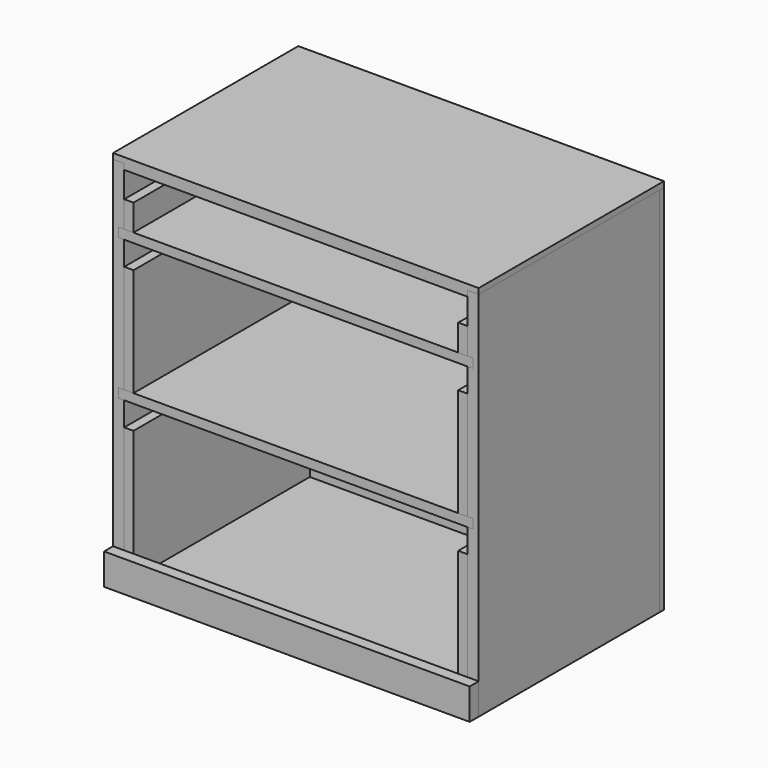
from build123d import *

# Parameters (mm, degrees)
F1_W           = 18.25625
F1_H           = 367.903125
F6_DEPTH       = 605.234375
F0_W           = 595.3125
F0_H           = 18.25625
F7_DEPTH       = 50.8
F2_W           = 577.05625
F2_H           = 15.08125
F8_DEPTH       = 190.103125
F8_DEPTH_BACK  = 177.8
F9_DEPTH       = 177.8
F9_DEPTH_BACK  = 190.103125
F10_DEPTH      = 177.8
F10_DEPTH_BACK = 199.23125
F5_W           = 18.25625
F5_H           = 9.128125
F11_DEPTH      = 297.65625
F11_DEPTH_BACK = 297.65625
F4_W           = 15.08125
F4_H           = 211.93125
F12_DEPTH      = 177.8
F12_DEPTH_BACK = 180.975
F4_H_2         = 176.2125
F4_H_3         = 42.8625


with BuildPart() as f6:
    # F1 (on Top) → F6 (new body)
    with BuildSketch(Plane.XY):
        with Locations((-288.528125, 6.1515625)):
            Rectangle(F1_W, F1_H)
    extrude(amount=F6_DEPTH)


with BuildPart() as f6b:
    # F1 (on Top) → F6, piece 2 (new body)
    with BuildSketch(Plane.XY):
        with Locations((288.528125, 6.1515625)):
            Rectangle(F1_W, F1_H)
    extrude(amount=F6_DEPTH)


with BuildPart() as f6c:
    # F0 (on Top) → F6, piece 3 (new body)
    with BuildSketch(Plane.XY):
        Polygon((297.65625, 199.23125), (-297.65625, 199.23125), (-297.65625, 190.103125), (-279.4, 190.103125), (-279.4, 180.975), (279.4, 180.975), (279.4, 190.103125), (297.65625, 190.103125), align=None)
    extrude(amount=F6_DEPTH)


with BuildPart() as f7:
    # F0 (on Top) → F7 (new body)
    with BuildSketch(Plane.XY):
        with Locations((0, -186.928125)):
            Rectangle(F0_W, F0_H)
    extrude(amount=F7_DEPTH)


with BuildPart() as f8_tool:
    # F2 (on Front) → F8 (new body, two sides)
    with BuildSketch(Plane.XZ) as f8_sk:
        with Locations((0, 7.540625)):
            Rectangle(F2_W, F2_H)
        with Locations((0, 273.446875)):
            Rectangle(F2_W, F2_H)
        with Locations((0, 503.634375)):
            Rectangle(F2_W, F2_H)
    extrude(amount=-F8_DEPTH)
    extrude(f8_sk.sketch, amount=F8_DEPTH_BACK)


with BuildPart() as f6_1:
    add(f6.part)

    # F8: cut by f8_tool
    add(f8_tool.part, mode=Mode.SUBTRACT)


with BuildPart() as f6b_1:
    add(f6b.part)

    # F8: cut by f8_tool
    add(f8_tool.part, mode=Mode.SUBTRACT)


with BuildPart() as f6c_1:
    add(f6c.part)

    # F8: cut by f8_tool
    add(f8_tool.part, mode=Mode.SUBTRACT)


with BuildPart() as f9:
    # F2 (on Front) → F9 (new body, two sides)
    with BuildSketch(Plane.XZ) as f9_sk:
        with Locations((0, 7.540625)):
            Rectangle(F2_W, F2_H)
    extrude(amount=F9_DEPTH)
    extrude(f9_sk.sketch, amount=-F9_DEPTH_BACK)


with BuildPart() as f9b:
    # F2 (on Front) → F9, piece 2 (new body, two sides)
    with BuildSketch(Plane.XZ) as f9_2_sk:
        with Locations((0, 273.446875)):
            Rectangle(F2_W, F2_H)
    extrude(amount=F9_DEPTH)
    extrude(f9_2_sk.sketch, amount=-F9_DEPTH_BACK)


with BuildPart() as f9c:
    # F2 (on Front) → F9, piece 3 (new body, two sides)
    with BuildSketch(Plane.XZ) as f9_3_sk:
        with Locations((0, 503.634375)):
            Rectangle(F2_W, F2_H)
    extrude(amount=F9_DEPTH)
    extrude(f9_3_sk.sketch, amount=-F9_DEPTH_BACK)


with BuildPart() as f10:
    # F3 (on Front) → F10 (new body, two sides)
    with BuildSketch(Plane.XZ) as f10_sk:
        Polygon((297.65625, 614.3625), (-297.65625, 614.3625), (-297.65625, 605.234375), (-279.4, 605.234375), (-279.4, 596.10625), (279.4, 596.10625), (279.4, 605.234375), (297.65625, 605.234375), align=None)
    extrude(amount=F10_DEPTH)
    extrude(f10_sk.sketch, amount=-F10_DEPTH_BACK)

    # F5 (on Right) → F11 (cut, two sides)
    with BuildSketch(Plane.YZ) as f11_sk:
        with Locations((190.103125, 600.6703125)):
            Rectangle(F5_W, F5_H)
    extrude(amount=-F11_DEPTH, mode=Mode.SUBTRACT)
    extrude(f11_sk.sketch, amount=F11_DEPTH_BACK, mode=Mode.SUBTRACT)


with BuildPart() as f12:
    # F4 (on Front) → F12 (new body, two sides)
    with BuildSketch(Plane.XZ) as f12_sk:
        with Locations((-271.859375, 121.046875)):
            Rectangle(F4_W, F4_H)
    extrude(amount=F12_DEPTH)
    extrude(f12_sk.sketch, amount=-F12_DEPTH_BACK)


with BuildPart() as f12b:
    # F4 (on Front) → F12, piece 2 (new body, two sides)
    with BuildSketch(Plane.XZ) as f12_2_sk:
        with Locations((-271.859375, 369.09375)):
            Rectangle(F4_W, F4_H_2)
    extrude(amount=F12_DEPTH)
    extrude(f12_2_sk.sketch, amount=-F12_DEPTH_BACK)


with BuildPart() as f12c:
    # F4 (on Front) → F12, piece 3 (new body, two sides)
    with BuildSketch(Plane.XZ) as f12_3_sk:
        with Locations((-271.859375, 532.60625)):
            Rectangle(F4_W, F4_H_3)
    extrude(amount=F12_DEPTH)
    extrude(f12_3_sk.sketch, amount=-F12_DEPTH_BACK)


with BuildPart() as f12d:
    # F4 (on Front) → F12, piece 4 (new body, two sides)
    with BuildSketch(Plane.XZ) as f12_4_sk:
        with Locations((271.859375, 369.09375)):
            Rectangle(F4_W, F4_H_2)
    extrude(amount=F12_DEPTH)
    extrude(f12_4_sk.sketch, amount=-F12_DEPTH_BACK)


with BuildPart() as f12e:
    # F4 (on Front) → F12, piece 5 (new body, two sides)
    with BuildSketch(Plane.XZ) as f12_5_sk:
        with Locations((271.859375, 121.046875)):
            Rectangle(F4_W, F4_H)
    extrude(amount=F12_DEPTH)
    extrude(f12_5_sk.sketch, amount=-F12_DEPTH_BACK)


with BuildPart() as f12f:
    # F4 (on Front) → F12, piece 6 (new body, two sides)
    with BuildSketch(Plane.XZ) as f12_6_sk:
        with Locations((271.859375, 532.60625)):
            Rectangle(F4_W, F4_H_3)
    extrude(amount=F12_DEPTH)
    extrude(f12_6_sk.sketch, amount=-F12_DEPTH_BACK)


solid = Compound([f7.part, f6_1.part, f6b_1.part, f6c_1.part, f9.part, f9b.part, f9c.part, f10.part, f12.part, f12b.part, f12c.part, f12d.part, f12e.part, f12f.part])
